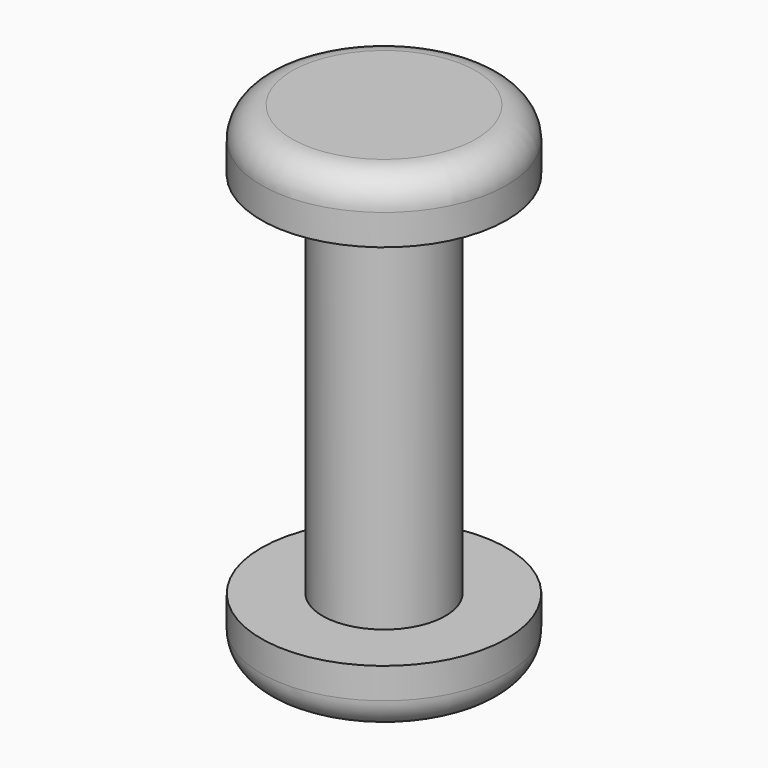
from build123d import *

# Parameters (mm, degrees)
F2_R = 1.5875


with BuildPart() as f1:
    # F0 (on Front) → F1 (revolve)
    with BuildSketch(Plane.XZ):
        Polygon((0, -3.175), (0, 0), (0, 19.05), (0, 22.225), (-6.35, 22.225), (-6.35, 19.05), (-3.175, 19.05), (-3.175, 0), (-6.35, 0), (-6.35, -3.175), align=None)
    revolve(axis=Axis((0, 0, 9.525), (0, 0, 1)))

    # F2
    f2_edges = [f1.edges().sort_by_distance(p)[0] for p in [
        (6.35, 0, 22.225),
        (6.35, 0, -3.175),
    ]]
    fillet(f2_edges, radius=F2_R)


solid = f1.part
